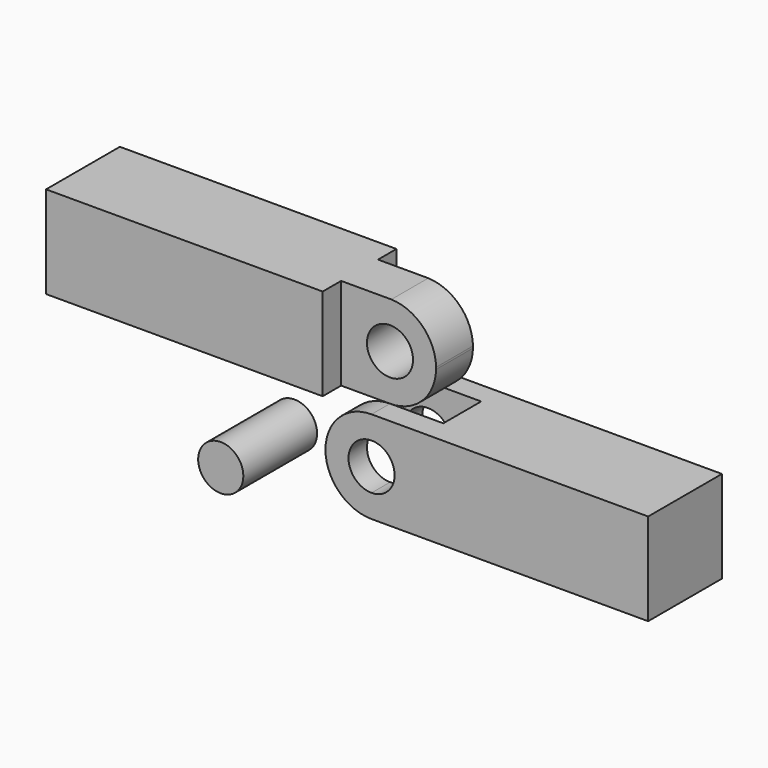
from build123d import *

# Parameters (mm, degrees)
F1_DEPTH  = 10
F3_DEPTH  = 10
F5_DEPTH  = 10
F4_R      = 2.5
F6_DEPTH  = 25
F7_R      = 2.45
F8_DEPTH  = 10
F10_DEPTH = 10


with BuildPart() as f1:
    # F0 (on Front) → F1 (new body)
    with BuildSketch(Plane.XZ):
        with BuildLine():
            ThreePointArc((-8.1666665228, -5), (-3.1666665228, 0), (-8.1666665228, 5))
            Line((-8.1666665228, 5), (-8.1666665228, 2.5))
            ThreePointArc((-8.1666665228, 2.5), (-6.3988995699, 1.767766953), (-5.6666665228, 0))
            ThreePointArc((-5.6666665228, 0), (-6.3988995699, -1.767766953), (-8.1666665228, -2.5))
            Line((-8.1666665228, -2.5), (-8.1666665228, -5))
        make_face()
        with BuildLine():
            Line((21.8333334772, 5), (-8.1666665228, 5))
            ThreePointArc((-8.1666665228, 5), (-3.1666665228, 0), (-8.1666665228, -5))
            Line((-8.1666665228, -5), (21.8333334772, -5))
            Line((21.8333334772, -5), (21.8333334772, 5))
        make_face()
        with BuildLine():
            Line((-8.1666665228, 2.5), (-8.1666665228, 5))
            ThreePointArc((-8.1666665228, 5), (-13.1666665228, 0), (-8.1666665228, -5))
            Line((-8.1666665228, -5), (-8.1666665228, -2.5))
            ThreePointArc((-8.1666665228, -2.5), (-10.6666665228, 0), (-8.1666665228, 2.5))
        make_face()
    extrude(amount=F1_DEPTH)

    # F2 (on face) → F3 (join)
    with BuildSketch(Plane.XY.offset(5)):
        Polygon((-13.4666665228, -2.5), (-13.4666665228, 0), (-43.4666665228, 0), (-43.4666665228, -10), (-13.4666665228, -10), (-13.4666665228, -7.5), (-3.1666665228, -7.5), (-3.1666665228, -2.5), align=None)
    extrude(amount=F3_DEPTH)

    # F4 (on face) → F5 (cut)
    with BuildSketch(Plane.XZ.offset(7.5)):
        with BuildLine():
            ThreePointArc((-3.1666665228, 9.8950530168), (-4.6680402197, 6.4274902598), (-8.1666665228, 5))
            Line((-8.1666665228, 5), (-3.1666665228, 5))
            Line((-3.1666665228, 5), (-3.1666665228, 9.8950530168))
        make_face()
        with BuildLine():
            ThreePointArc((-8.0166665228, 15), (-4.6148352571, 13.5218842825), (-3.1666665228, 10.1071969832))
            Line((-3.1666665228, 10.1071969832), (-3.1666665228, 15))
            Line((-3.1666665228, 15), (-8.0166665228, 15))
        make_face()
    extrude(amount=-F5_DEPTH, mode=Mode.SUBTRACT)

    # F4 (on face) → F6 (cut)
    with BuildSketch(Plane.XZ.offset(7.5)):
        with Locations((-8.1666665228, 10.001125)):
            Circle(F4_R)
    extrude(amount=-F6_DEPTH, mode=Mode.SUBTRACT)

    # F9 (on face) → F10 (cut)
    with BuildSketch(Plane(origin=(0, 0, -5), x_dir=(1, 0, 0), z_dir=(0, 0, -1))):
        Polygon((-13.4138111025, 10.8968433209), (-2.3915369313, 10.8968433209), (-2.3915369313, 14.1670521219), (-16.214871059, 14.1670521219), (-16.214871059, -4.0230309721), (-2.3915369313, -4.0230309721), (-2.3915369313, -2.4774149803), (-13.4138111025, -2.4774149803), (-13.4138111025, 2.3589546254), (-2.3915369313, 2.3589546254), (-2.3915369313, 7.4913585559), (-13.4138111025, 7.4913585559), align=None)
    extrude(amount=-F10_DEPTH, mode=Mode.SUBTRACT)


with BuildPart() as f8:
    # F7 (on Front) → F8 (new body)
    with BuildSketch(Plane.XZ):
        with Locations((-24.5229806751, -5.4125646129)):
            Circle(F7_R)
    extrude(amount=F8_DEPTH)


solid = Compound([f1.part, f8.part])
